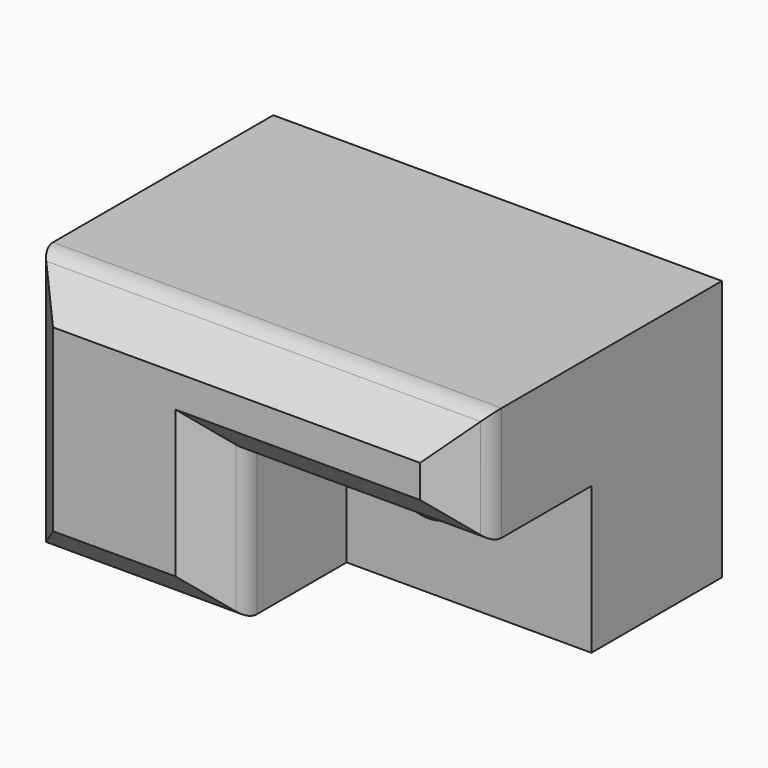
from build123d import *

# Parameters (mm, degrees)
F0_W     = 55
F0_H     = 32
F1_DEPTH = 40
F2_W     = 30
F2_H     = 18
F3_DEPTH = 20
F4_W     = 30
F4_H     = 18
F5_DEPTH = 20
F6_R     = 5
F7_DEPTH = 20.001
F8_SIZE  = 5
F9_R     = 3


with BuildPart() as f1:
    # F0 (on Front) → F1 (new body)
    with BuildSketch(Plane.XZ):
        with Locations((27.5, -16)):
            Rectangle(F0_W, F0_H)
    extrude(amount=F1_DEPTH)

    # F2 (on Front) → F3 (cut)
    with BuildSketch(Plane.XZ):
        with Locations((35.8558194712, -20.2440911922)):
            Rectangle(F2_W, F2_H)
    extrude(amount=-F3_DEPTH, mode=Mode.SUBTRACT)

    # F4 (on face) → F5 (cut)
    with BuildSketch(Plane.XZ.offset(40)):
        with Locations((40, -23)):
            Rectangle(F4_W, F4_H)
    extrude(amount=-F5_DEPTH, mode=Mode.SUBTRACT)

    # F6 (on face) → F7 (cut, through all)
    with BuildSketch(Plane.XZ.offset(20)):
        with Locations((35, -19)):
            Circle(F6_R)
    extrude(amount=-F7_DEPTH, mode=Mode.SUBTRACT)

    # F8
    f8_edges = [f1.edges().sort_by_distance(p)[0] for p in [
        (12.5, -40, -32),
        (25, -40, -23),
        (40, -40, -14),
        (55, -40, -7),
        (0, -40, -16),
        (27.5, -40, 0),
    ]]
    chamfer(f8_edges, length=F8_SIZE)

    # F9
    f9_edges = [f1.edges().sort_by_distance(p)[0] for p in [
        (0, -35, -16),
        (12.5, -35, -32),
        (25, -35, -23),
        (40, -35, -14),
        (55, -35, -7),
        (27.5, -35, 0),
    ]]
    fillet(f9_edges, radius=F9_R)


solid = f1.part
